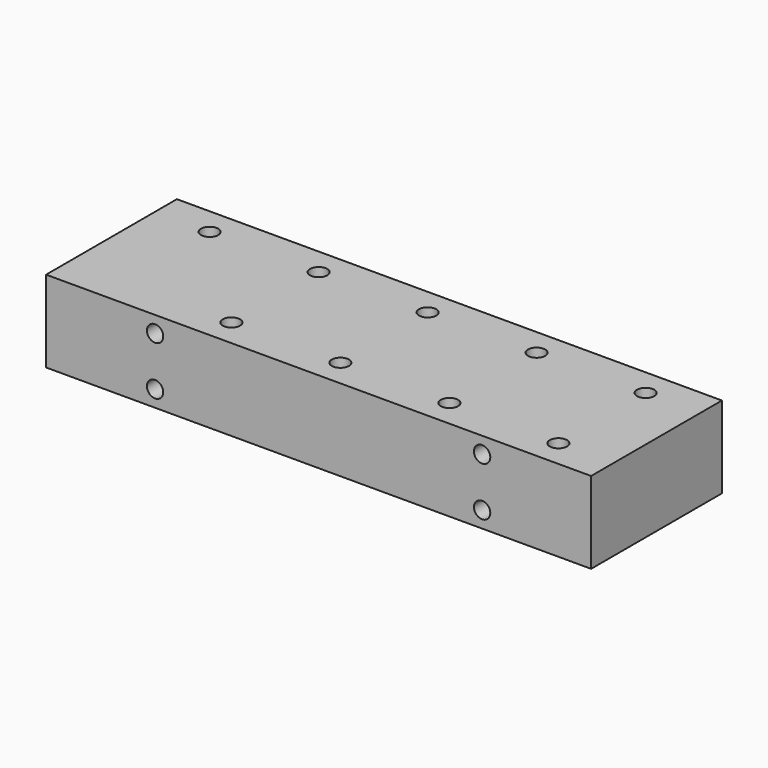
from build123d import *

# Parameters (mm, degrees)
F0_W     = 400
F0_H     = 120
F0_R     = 12.7
F0_R_2   = 6.35
F1_DEPTH = 60
F3_D     = 12
F3_DEPTH = 80
F3_TIP   = 3.6051637142
F4_D     = 12.7


with BuildPart() as f1:
    # F0 (on Top) → F1 (new body)
    with BuildSketch(Plane.XY):
        with Locations((0, 60)):
            Rectangle(F0_W, F0_H)
        with Locations((-80, 20)):
            Circle(F0_R, mode=Mode.SUBTRACT)
        with Locations((0, 20)):
            Circle(F0_R, mode=Mode.SUBTRACT)
        with Locations((80, 20)):
            Circle(F0_R, mode=Mode.SUBTRACT)
        with Locations((160, 20)):
            Circle(F0_R, mode=Mode.SUBTRACT)
        with Locations((-160, 100)):
            Circle(F0_R, mode=Mode.SUBTRACT)
        with Locations((-80, 100)):
            Circle(F0_R, mode=Mode.SUBTRACT)
        with Locations((0, 100)):
            Circle(F0_R, mode=Mode.SUBTRACT)
        with Locations((80, 100)):
            Circle(F0_R, mode=Mode.SUBTRACT)
        with Locations((160, 100)):
            Circle(F0_R, mode=Mode.SUBTRACT)
        with Locations((-160, 100)):
            Circle(F0_R)
        with Locations((-160, 100)):
            Circle(F0_R_2, mode=Mode.SUBTRACT)
        with Locations((-80, 100)):
            Circle(F0_R)
        with Locations((-80, 100)):
            Circle(F0_R_2, mode=Mode.SUBTRACT)
        with Locations((0, 100)):
            Circle(F0_R)
        with Locations((0, 100)):
            Circle(F0_R_2, mode=Mode.SUBTRACT)
        with Locations((80, 100)):
            Circle(F0_R)
        with Locations((80, 100)):
            Circle(F0_R_2, mode=Mode.SUBTRACT)
        with Locations((160, 100)):
            Circle(F0_R)
        with Locations((160, 100)):
            Circle(F0_R_2, mode=Mode.SUBTRACT)
        with Locations((80, 20)):
            Circle(F0_R)
        with Locations((80, 20)):
            Circle(F0_R_2, mode=Mode.SUBTRACT)
        with Locations((160, 20)):
            Circle(F0_R)
        with Locations((160, 20)):
            Circle(F0_R_2, mode=Mode.SUBTRACT)
        with Locations((0, 20)):
            Circle(F0_R)
        with Locations((0, 20)):
            Circle(F0_R_2, mode=Mode.SUBTRACT)
        with Locations((-80, 20)):
            Circle(F0_R)
        with Locations((-80, 20)):
            Circle(F0_R_2, mode=Mode.SUBTRACT)
        with Locations((-160, 100)):
            Circle(F0_R_2)
        with Locations((-80, 100)):
            Circle(F0_R_2)
        with Locations((0, 100)):
            Circle(F0_R_2)
        with Locations((80, 100)):
            Circle(F0_R_2)
        with Locations((160, 100)):
            Circle(F0_R_2)
        with Locations((80, 20)):
            Circle(F0_R_2)
        with Locations((160, 20)):
            Circle(F0_R_2)
        with Locations((0, 20)):
            Circle(F0_R_2)
        with Locations((-80, 20)):
            Circle(F0_R_2)
    extrude(amount=-F1_DEPTH)

    # F3
    with Locations(Plane.XZ):
        with Locations((-120, -12), (-120, -48), (120, -48), (120, -12)):
            Hole(F3_D / 2, depth=F3_DEPTH)
            with Locations((0, 0, -(F3_DEPTH + F3_TIP / 2))):  # 118° drill point
                Cone(0, F3_D / 2, F3_TIP, mode=Mode.SUBTRACT)

    # F4 (through all)
    with Locations(Plane.XY):
        with Locations((-80, 20), (-80, 100), (-160, 100), (0, 100), (0, 20), (80, 20), (80, 100), (160, 100), (160, 20)):
            Hole(F4_D / 2)


solid = f1.part
